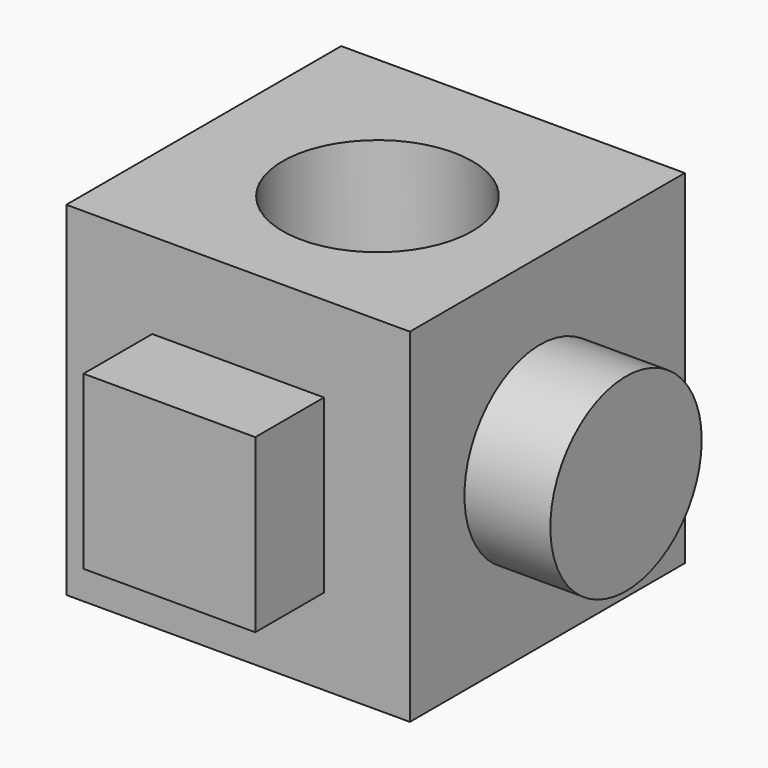
from build123d import *

# Parameters (mm, degrees)
F0_W     = 50.8
F0_H     = 50.8
F1_DEPTH = 50.8
F2_W     = 25.4
F2_H     = 25.4
F3_DEPTH = 12.7
F4_R     = 14.017658
F5_DEPTH = 25.4
F6_R     = 13.98609
F7_DEPTH = 12.7


with BuildPart() as f1:
    # F0 (on Front) → F1 (new body)
    with BuildSketch(Plane.XZ):
        with Locations((-25.4, 25.4)):
            Rectangle(F0_W, F0_H)
    extrude(amount=F1_DEPTH)

    # F2 (on face) → F3 (join)
    with BuildSketch(Plane.XZ.offset(50.8)):
        with Locations((-25.4, 25.4)):
            Rectangle(F2_W, F2_H)
    extrude(amount=F3_DEPTH)

    # F4 (on face) → F5 (cut)
    with BuildSketch(Plane.XY.offset(50.8)):
        with Locations((-24.082342, -26.685146)):
            Circle(F4_R)
    extrude(amount=-F5_DEPTH, mode=Mode.SUBTRACT)

    # F6 (on face) → F7 (join)
    with BuildSketch(Plane.YZ):
        with Locations((-26.733652, 25.350569)):
            Circle(F6_R)
    extrude(amount=F7_DEPTH)


solid = f1.part
